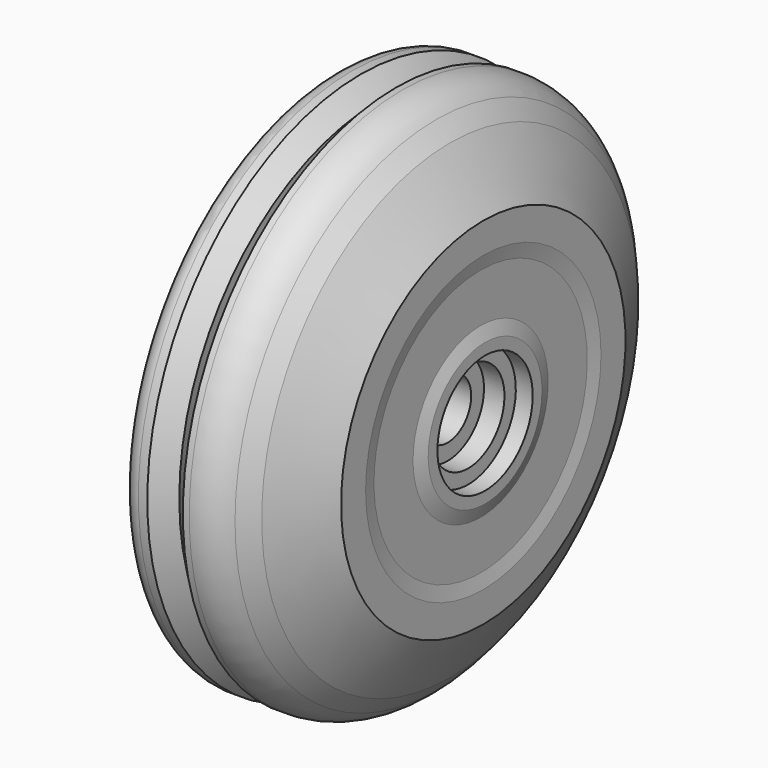
from build123d import *


with BuildPart() as f1:
    # F0 (on Front) → F1 (revolve)
    with BuildSketch(Plane.XZ):
        with BuildLine():
            Line((0, 3.626402), (0, 0))
            Line((0, 0), (6.8, 0))
            Line((6.8, 0), (6.8, 3.3))
            Line((6.8, 3.3), (12.8, 3.3))
            Line((12.8, 3.3), (12.8, 5.1))
            Line((12.8, 5.1), (15.1, 5.1))
            Line((15.1, 5.1), (15.1, 6.7))
            Line((15.1, 6.7), (17, 6.7))
            Line((17, 6.7), (17, 8))
            Line((17, 8), (16.5, 9.5))
            Line((16.5, 9.5), (16.5, 15))
            Line((16.5, 15), (16.8, 16.552417))
            Line((16.8, 16.552417), (16.8, 20))
            Line((16.8, 20), (13.056557, 26.483833))
            Line((13.056557, 26.483833), (11.494917, 28.280295))
            ThreePointArc((11.494917, 28.280295), (9.794835, 29.549806), (7.721369, 30))
            Line((7.721369, 30), (7, 30))
            Line((7, 30), (5, 28))
            Line((5, 28), (3, 30))
            Line((3, 30), (2, 30))
            ThreePointArc((2, 30), (0.585786, 29.414214), (0, 28))
            Line((0, 28), (0, 24.78538))
            ThreePointArc((0, 24.78538), (0.138391, 24.054345), (0.534413, 23.424478))
            Line((0.534413, 23.424478), (10.988391, 12.166348))
            ThreePointArc((10.988391, 12.166348), (11.471216, 10.354122), (10.240762, 8.938755))
            Line((10.240762, 8.938755), (1.282042, 5.493093))
            ThreePointArc((1.282042, 5.493093), (0.351377, 4.758675), (0, 3.626402))
        make_face()
    revolve(axis=Axis((3.4, 0, 0), (-1, 0, 0)))


solid = f1.part
